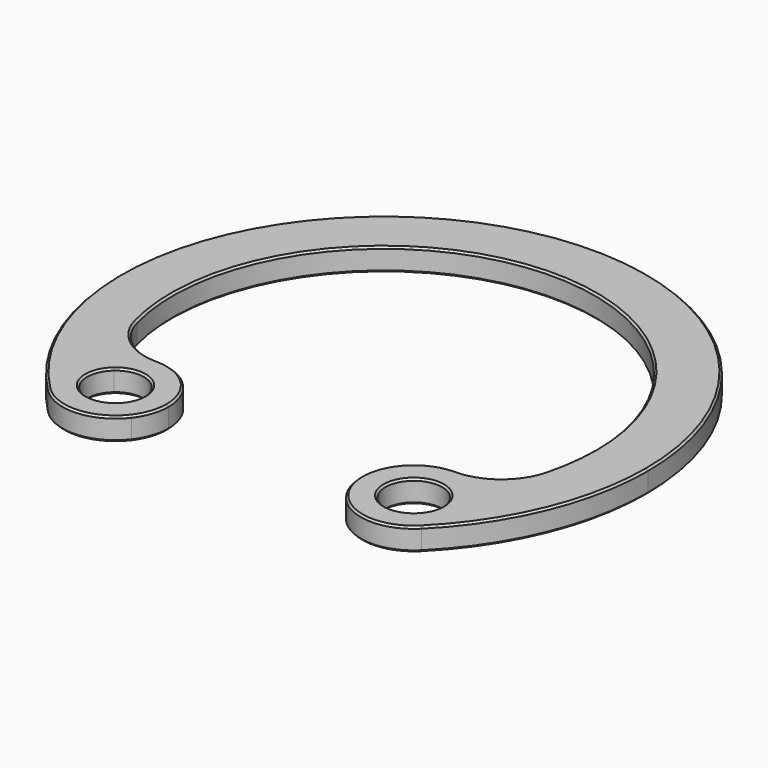
from build123d import *

# Parameters (mm, degrees)
F1_DEPTH = 1.2
F2_R     = 3
F3_SIZE  = 0.1


with BuildPart() as f1:
    # F0 (on Top) → F1 (new body)
    with BuildSketch(Plane.XY):
        with BuildLine():
            ThreePointArc((9.8641395976, -9.8641395976), (12.8881194785, -5.3384338815), (13.95, 0))
            ThreePointArc((13.95, 0), (-5.3384338815, 12.8881194785), (-9.8641395976, -9.8641395976))
            ThreePointArc((-9.8641395976, -9.8641395976), (-10.6786952908, -7.7081070294), (-9.5998734147, -5.6714134412))
            ThreePointArc((-9.5998734147, -5.6714134412), (-2.939720346, 10.7554890306), (11.15, 0))
            ThreePointArc((11.15, 0), (10.7554890306, -2.939720346), (9.5998734147, -5.6714134412))
            ThreePointArc((9.5998734147, -5.6714134412), (10.3985766909, -6.6521228911), (10.6842406102, -7.8842406102))
            ThreePointArc((10.6842406102, -7.8842406102), (10.4711033013, -8.9557542209), (9.8641395976, -9.8641395976))
        make_face()
        with BuildLine():
            ThreePointArc((-5.0842406102, -7.8842406102), (-6.6521228911, -5.3699045296), (-9.5998734147, -5.6714134412))
            ThreePointArc((-9.5998734147, -5.6714134412), (-9.251381225, -6.2237003004), (-8.8711537165, -6.7546377948))
            ThreePointArc((-8.8711537165, -6.7546377948), (-7.2639058858, -6.5185229126), (-6.3842406102, -7.8842406102))
            ThreePointArc((-6.3842406102, -7.8842406102), (-6.4798894748, -8.4113059652), (-6.7546377948, -8.8711537165))
            ThreePointArc((-6.7546377948, -8.8711537165), (-6.2237003004, -9.251381225), (-5.6714134412, -9.5998734147))
            ThreePointArc((-5.6714134412, -9.5998734147), (-5.2350977231, -8.7909059086), (-5.0842406102, -7.8842406102))
        make_face()
        with BuildLine():
            ThreePointArc((-9.5998734147, -5.6714134412), (-10.6786952908, -7.7081070294), (-9.8641395976, -9.8641395976))
            ThreePointArc((-9.8641395976, -9.8641395976), (-7.7081070294, -10.6786952908), (-5.6714134412, -9.5998734147))
            ThreePointArc((-5.6714134412, -9.5998734147), (-6.2237003004, -9.251381225), (-6.7546377948, -8.8711537165))
            ThreePointArc((-6.7546377948, -8.8711537165), (-8.944900782, -8.944900782), (-8.8711537165, -6.7546377948))
            ThreePointArc((-8.8711537165, -6.7546377948), (-9.251381225, -6.2237003004), (-9.5998734147, -5.6714134412))
        make_face()
        with BuildLine():
            ThreePointArc((9.5998734147, -5.6714134412), (5.9043416229, -5.9043416229), (5.6714134412, -9.5998734147))
            ThreePointArc((5.6714134412, -9.5998734147), (6.2237003004, -9.251381225), (6.7546377948, -8.8711537165))
            ThreePointArc((6.7546377948, -8.8711537165), (6.8235804385, -6.8235804385), (8.8711537165, -6.7546377948))
            ThreePointArc((8.8711537165, -6.7546377948), (9.251381225, -6.2237003004), (9.5998734147, -5.6714134412))
        make_face()
        with BuildLine():
            ThreePointArc((5.6714134412, -9.5998734147), (7.7081070294, -10.6786952908), (9.8641395976, -9.8641395976))
            ThreePointArc((9.8641395976, -9.8641395976), (10.4711033013, -8.9557542209), (10.6842406102, -7.8842406102))
            ThreePointArc((10.6842406102, -7.8842406102), (10.3985766909, -6.6521228911), (9.5998734147, -5.6714134412))
            ThreePointArc((9.5998734147, -5.6714134412), (9.251381225, -6.2237003004), (8.8711537165, -6.7546377948))
            ThreePointArc((8.8711537165, -6.7546377948), (9.2499583079, -7.2639058858), (9.3842406102, -7.8842406102))
            ThreePointArc((9.3842406102, -7.8842406102), (8.4113059652, -9.2885917457), (6.7546377948, -8.8711537165))
            ThreePointArc((6.7546377948, -8.8711537165), (6.2237003004, -9.251381225), (5.6714134412, -9.5998734147))
        make_face()
    extrude(amount=F1_DEPTH)

    # F2
    f2_edges = [f1.edges().sort_by_distance(p)[0] for p in [
        (-9.599873, -5.671413, 0.6),
        (9.599873, -5.671413, 0.6),
    ]]
    fillet(f2_edges, radius=F2_R)

    # F3
    f3_edges = [f1.edges().sort_by_distance(p)[0] for p in [
        (-5.297863, -8.956926, 1.2),
        (-9.710143, -4.460557, 1.2),
        (0, 13.95, 1.2),
        (0, 11.15, 1.2),
        (5.297863, -8.956926, 1.2),
        (9.710143, -4.460557, 1.2),
        (-6.897328, -9.013843, 1.2),
        (9.013843, -6.897328, 1.2),
        (0, 11.15, 0),
        (-6.897328, -9.013843, 0),
        (9.013843, -6.897328, 0),
    ]]
    chamfer(f3_edges, length=F3_SIZE)


solid = f1.part
